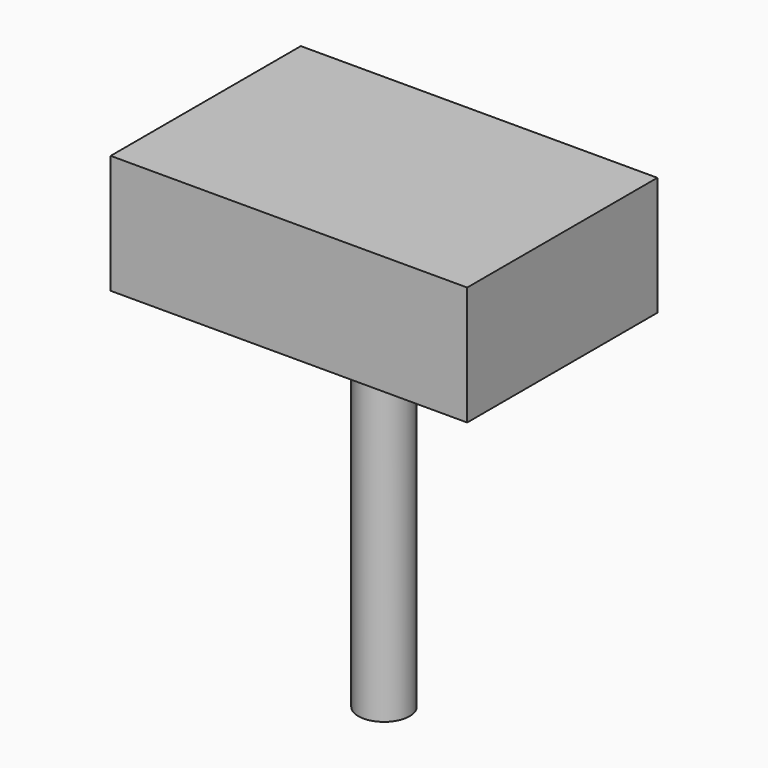
from build123d import *

# Parameters (mm, degrees)
SKETCH_W     = 609.6
SKETCH_H     = 406.4
PAD_DEPTH    = 203.2
SKETCH001_R  = 43.745106
PAD001_DEPTH = 609.6


with BuildPart() as part:
    # Sketch → Pad (new body)
    with BuildSketch(Plane.XY):
        Rectangle(SKETCH_W, SKETCH_H)
    extrude(amount=PAD_DEPTH)

    # Sketch001 (on Face5 of Pad) → Pad001 (join)
    with BuildSketch(Plane(origin=(0, 0, 0), x_dir=(1, 0, 0), z_dir=(0, 0, -1))):
        Circle(SKETCH001_R)
    extrude(amount=PAD001_DEPTH)


solid = part.part
